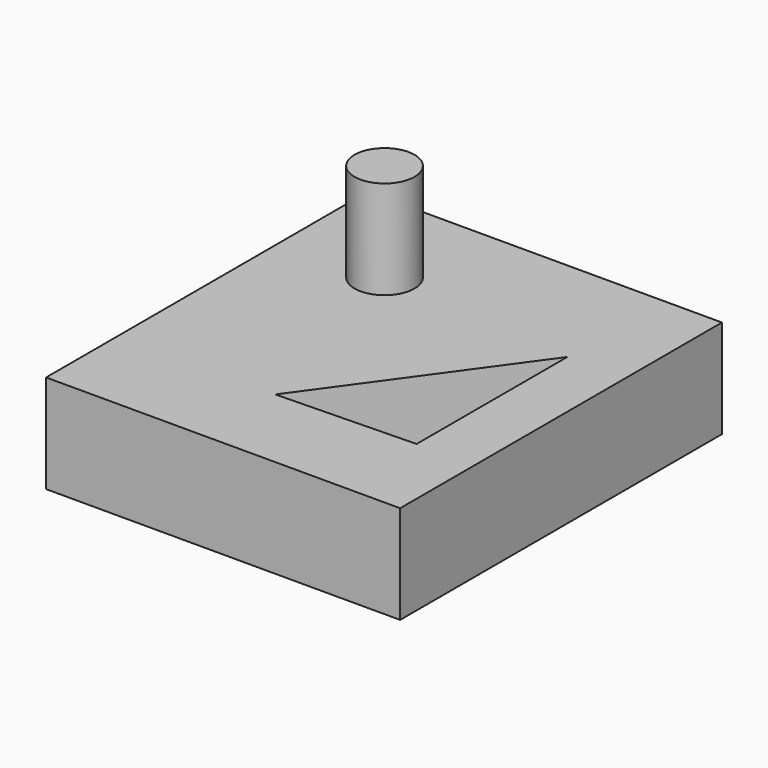
from build123d import *

# Parameters (mm, degrees)
F0_W     = 91.4542
F0_H     = 103.904634
F1_DEPTH = 25.4
F2_R     = 7.743106
F3_DEPTH = 25.4
F4_DEPTH = 25.4


with BuildPart() as f1:
    # F0 (on Top) → F1 (new body)
    with BuildSketch(Plane.XY):
        Rectangle(F0_W, F0_H)
    extrude(amount=F1_DEPTH)

    # F2 (on face) → F3 (join)
    with BuildSketch(Plane.XY.offset(25.4)):
        with Locations((-19.694343, 24.787709)):
            Circle(F2_R)
    extrude(amount=F3_DEPTH)

    # F2 (on face) → F4 (cut)
    with BuildSketch(Plane.XY.offset(25.4)):
        Polygon((30.786563, 20.713016), (-4.980177, -28.8624), (30.786563, -27.956914), align=None)
    extrude(amount=-F4_DEPTH, mode=Mode.SUBTRACT)


solid = f1.part
